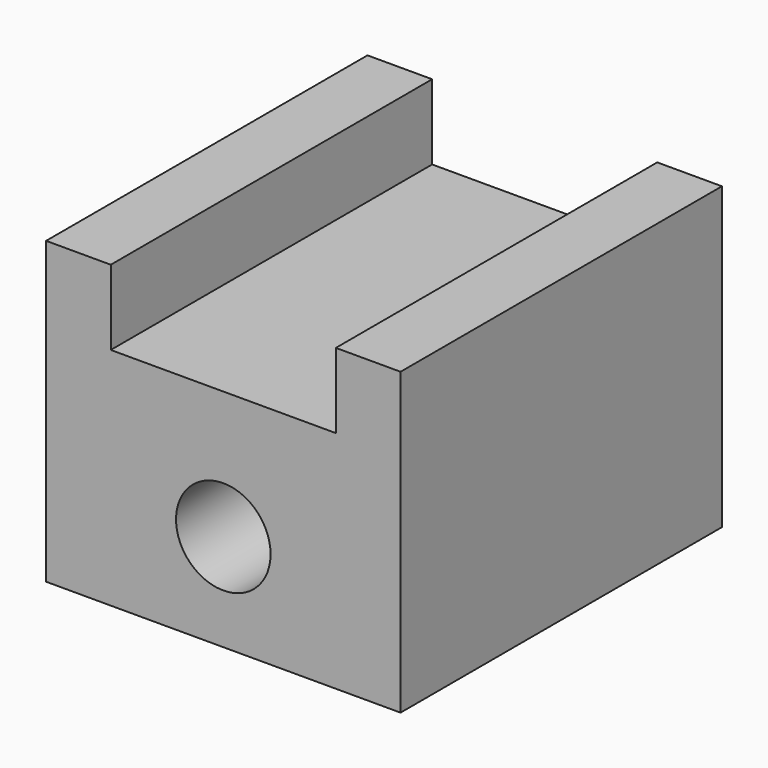
from build123d import *

# Parameters (mm, degrees)
F0_W     = 30
F0_H     = 34
F1_DEPTH = 25.4
F2_R     = 4
F3_DEPTH = 34.001
F4_W     = 19.05
F4_H     = 34
F5_DEPTH = 6.35


with BuildPart() as f1:
    # F0 (on Top) → F1 (new body)
    with BuildSketch(Plane.XY):
        Rectangle(F0_W, F0_H)
    extrude(amount=F1_DEPTH)

    # F2 (on face) → F3 (cut, through all)
    with BuildSketch(Plane.XZ.offset(17)):
        with Locations((0, 8.224509)):
            Circle(F2_R)
    extrude(amount=-F3_DEPTH, mode=Mode.SUBTRACT)

    # F4 (on face) → F5 (cut)
    with BuildSketch(Plane.XY.offset(25.4)):
        Rectangle(F4_W, F4_H)
    extrude(amount=-F5_DEPTH, mode=Mode.SUBTRACT)


solid = f1.part
